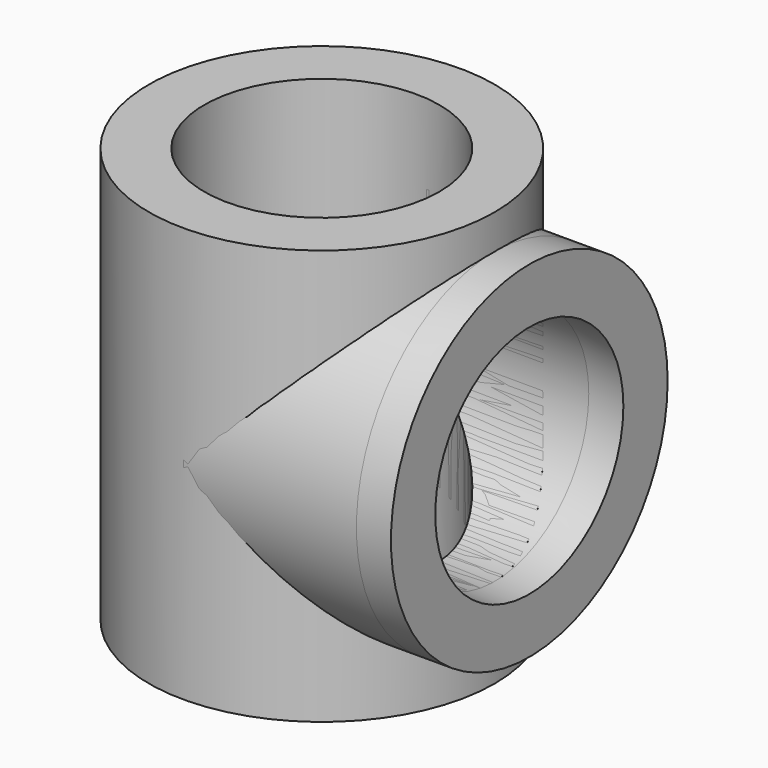
from build123d import *

# Parameters (mm, degrees)
F0_R     = 12.5
F0_R_2   = 8.5
F1_DEPTH = 30
F4_R     = 12.5
F4_R_2   = 8.5
F5_DEPTH = 12.5
F6_DEPTH = 12.5
F7_DEPTH = 30
F8_DEPTH = 2.5


with BuildPart() as f1:
    # F0 (on Top) → F1 (new body)
    with BuildSketch(Plane.XY):
        Circle(F0_R)
        Circle(F0_R_2, mode=Mode.SUBTRACT)
    extrude(amount=F1_DEPTH)

    # F4 (on face) → F6 (cut)
    with BuildSketch(Plane.YZ.offset(12.5)):
        with Locations((0, 15)):
            Circle(F4_R_2)
    extrude(amount=-F6_DEPTH, mode=Mode.SUBTRACT)


with BuildPart() as f5:
    # F4 (on face) → F5 (new body)
    with BuildSketch(Plane.YZ.offset(12.5)):
        with Locations((0, 15)):
            Circle(F4_R)
        with Locations((0, 15)):
            Circle(F4_R_2, mode=Mode.SUBTRACT)
    extrude(amount=-F5_DEPTH)

    # F0 (on Top) → F7 (cut)
    with BuildSketch(Plane.XY):
        Circle(F0_R_2)
    extrude(amount=F7_DEPTH, mode=Mode.SUBTRACT)


with BuildPart() as f8:
    # F4 (on face) → F8 (new body)
    with BuildSketch(Plane.YZ.offset(12.5)):
        with Locations((0, 15)):
            Circle(F4_R)
        with Locations((0, 15)):
            Circle(F4_R_2, mode=Mode.SUBTRACT)
    extrude(amount=F8_DEPTH)


solid = Compound([f1.part, f5.part, f8.part])
